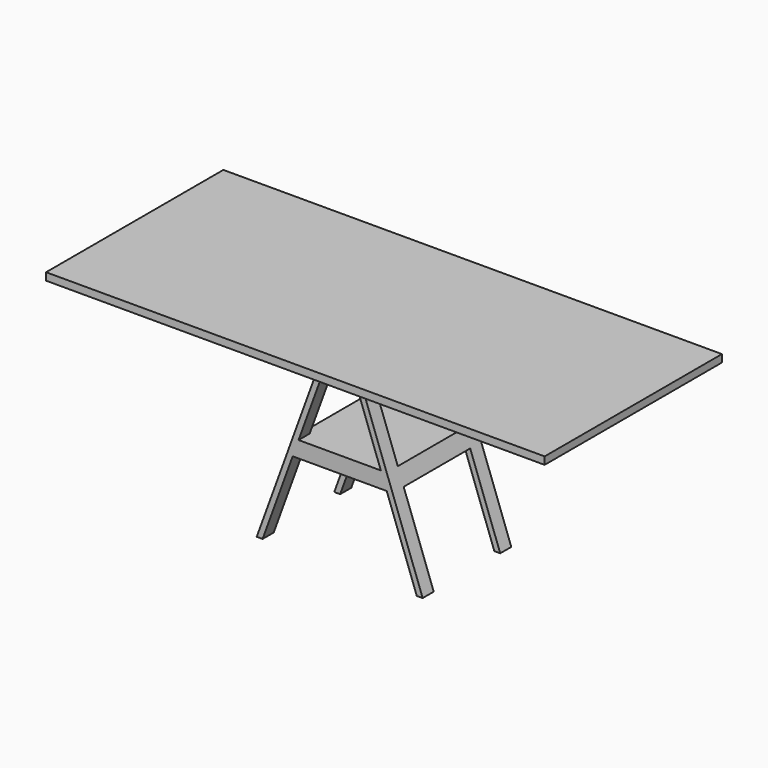
from build123d import *

# Parameters (mm, degrees)
F0_W          = 1800
F0_H          = 800
F1_DEPTH      = 27
F3_DEPTH      = 200
F4_W          = 300
F4_H          = 314.6957938282
F4_H_2        = 298.1724899121
F5_DEPTH      = 900.001
F5_DEPTH_BACK = 900.001


with BuildPart() as f1:
    # F0 (on Top) → F1 (new body)
    with BuildSketch(Plane.XY):
        Rectangle(F0_W, F0_H)
    extrude(amount=F1_DEPTH)


with BuildPart() as f3:
    # F2 (on Front) → F3 (new body, symmetric)
    with BuildSketch(Plane.XZ):
        Polygon((-169.7746314183, -401.8275100879), (-169.7746314183, -343.3514220846), (-299.5840978729, -700), (-278.3005424234, -700), align=None)
        Polygon((-33.9511741666, -28.6556282564), (-55.2347296161, -28.6556282564), (-169.7746314183, -343.3514220846), (-148.4910759688, -343.3514220846), align=None)
        Polygon((-148.4910759688, -343.3514220846), (-169.7746314183, -343.3514220846), (-169.7746314183, -401.8275100879), align=None)
        Polygon((55.2347296161, 0), (-55.2347296161, 0), (-55.2347296161, -28.6556282564), (-33.9511741666, -28.6556282564), (33.9511741666, -28.6556282564), (55.2347296161, -28.6556282564), align=None)
        Polygon((169.7746314183, -343.3514220846), (55.2347296161, -28.6556282564), (33.9511741666, -28.6556282564), (148.4910759688, -343.3514220846), align=None)
        Polygon((169.7746314183, -401.8275100879), (169.7746314183, -343.3514220846), (148.4910759688, -343.3514220846), align=None)
        Polygon((299.5840978729, -700), (169.7746314183, -343.3514220846), (169.7746314183, -401.8275100879), (278.3005424234, -700), align=None)
        Polygon((148.4910759688, -343.3514220846), (-148.4910759688, -343.3514220846), (-169.7746314183, -401.8275100879), (169.7746314183, -401.8275100879), align=None)
    extrude(amount=F3_DEPTH, both=True)

    # F4 (on Right) → F5 (cut, two sides)
    with BuildSketch(Plane.YZ) as f5_sk:
        with Locations((0, -186.0035251705)):
            Rectangle(F4_W, F4_H)
        with Locations((0, -550.9137550439)):
            Rectangle(F4_W, F4_H_2)
    extrude(amount=-F5_DEPTH, mode=Mode.SUBTRACT)
    extrude(f5_sk.sketch, amount=F5_DEPTH_BACK, mode=Mode.SUBTRACT)


solid = Compound([f1.part, f3.part])
